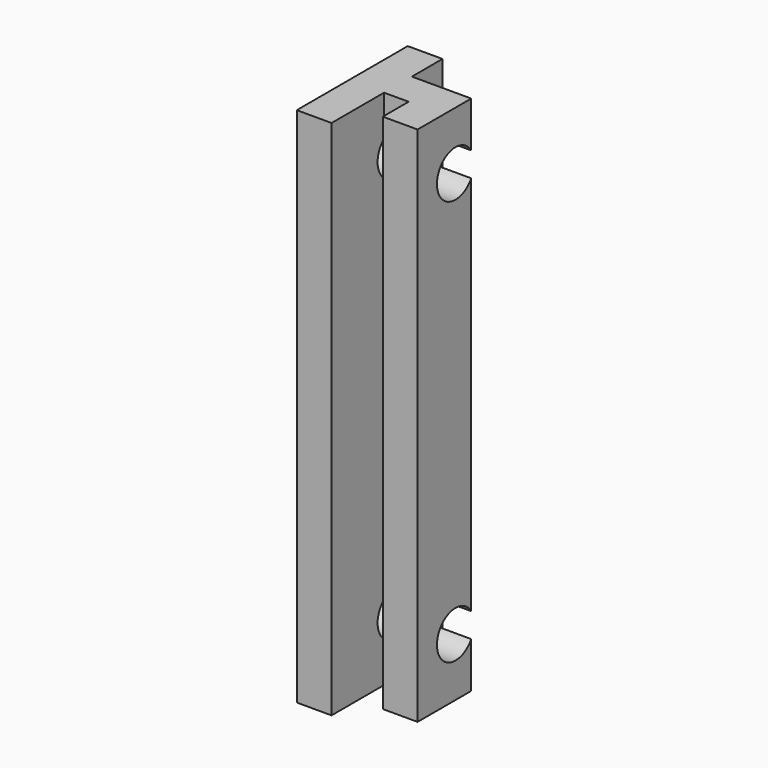
from build123d import *

# Parameters (mm, degrees)
F1_DEPTH = 45
F2_R     = 2
F3_DEPTH = 8.122212


with BuildPart() as f1:
    # F0 (on Top) → F1 (new body)
    with BuildSketch(Plane.XY):
        Polygon((0, 11.969698), (0, 0), (3, 0), (3, 5.666667), (5.121212, 5.666667), (5.121212, 2.878788), (8.121212, 2.878788), (8.121212, 8.666667), (3, 8.666667), (3, 11.969698), align=None)
    extrude(amount=F1_DEPTH)

    # F2 (on face) → F3 (cut, through all)
    with BuildSketch(Plane(origin=(0, 0, 0), x_dir=(0, -1, 0), z_dir=(-1, 0, 0))):
        with Locations((-6.969698, 5)):
            Circle(F2_R)
        with Locations((-6.969698, 40)):
            Circle(F2_R)
    extrude(amount=-F3_DEPTH, mode=Mode.SUBTRACT)


solid = f1.part
